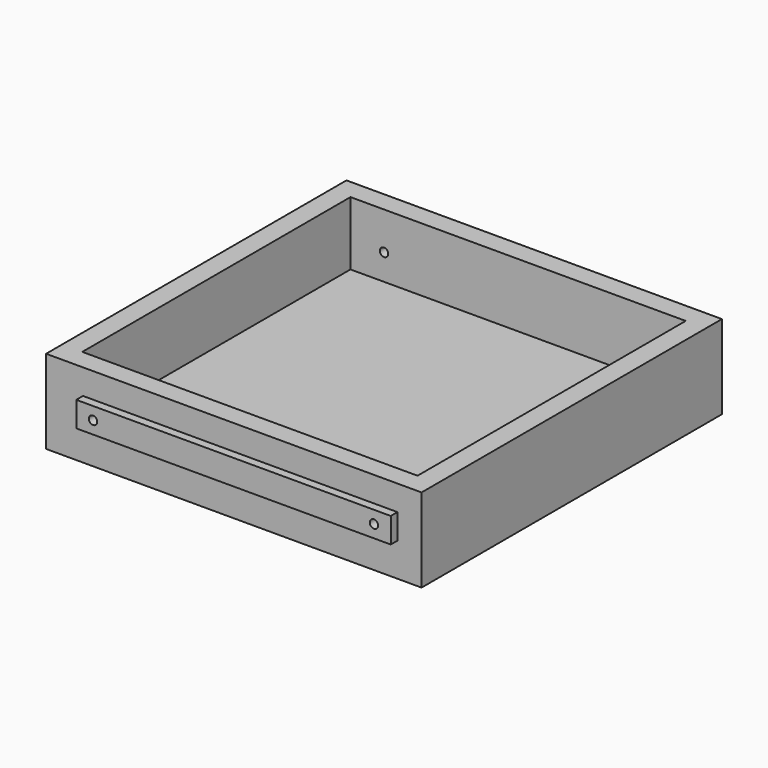
from build123d import *

# Parameters (mm, degrees)
F0_W     = 224
F0_H     = 224
F0_W_2   = 200
F0_H_2   = 200
F1_DEPTH = 50
F2_DEPTH = 12
F3_R     = 2.5
F4_DEPTH = 5
F5_DEPTH = 300


with BuildPart() as f1:
    # F0 (on Top) → F1 (new body)
    with BuildSketch(Plane.XY):
        with Locations((-109.148975, 70.997286)):
            Rectangle(F0_W, F0_H)
        with Locations((-109.148975, 70.997286)):
            Rectangle(F0_W_2, F0_H_2, mode=Mode.SUBTRACT)
    extrude(amount=F1_DEPTH)

    # F0 (on Top) → F2 (join)
    with BuildSketch(Plane.XY):
        with Locations((-109.148975, 70.997286)):
            Rectangle(F0_W_2, F0_H_2)
    extrude(amount=F2_DEPTH)

    # F3 (on face) → F5 (cut)
    with BuildSketch(Plane.XZ.offset(41.002714)):
        with Locations((-29.148975, 27.5)):
            Circle(F3_R)
        with BuildLine():
            ThreePointArc((-186.762775, 26.754313), (-186.677589, 27.122839), (-186.648975, 27.5))
            ThreePointArc((-186.648975, 27.5), (-191.620361, 27.877161), (-186.762775, 26.754313))
        make_face()
    extrude(amount=-F5_DEPTH, mode=Mode.SUBTRACT)


with BuildPart() as f4:
    # F3 (on face) → F4 (new body)
    with BuildSketch(Plane.XZ.offset(41.002714)):
        Polygon((-199.148975, 20), (-165.148975, 20), (-11.518425, 20), (-11.518425, 35), (-199.148975, 35), align=None)
        with BuildLine():
            ThreePointArc((-186.762775, 26.754313), (-191.620361, 27.877161), (-186.648975, 27.5))
            ThreePointArc((-186.648975, 27.5), (-186.677589, 27.122839), (-186.762775, 26.754313))
        make_face(mode=Mode.SUBTRACT)
        with Locations((-29.148975, 27.5)):
            Circle(F3_R, mode=Mode.SUBTRACT)
        with Locations((-21.518425, 27.5)):
            Circle(F3_R, mode=Mode.SUBTRACT)
        with Locations((-29.148975, 27.5)):
            Circle(F3_R)
    extrude(amount=F4_DEPTH)


solid = Compound([f1.part, f4.part])
